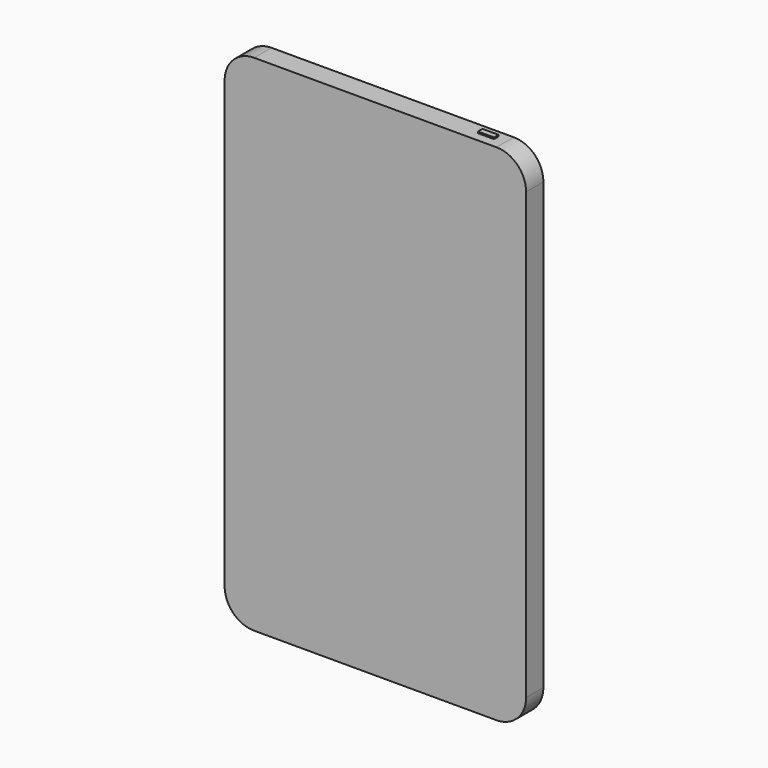
from build123d import *

# Parameters (mm, degrees)
F1_DEPTH = 3.661873
F2_W     = 1.138547
F2_H     = 6.686799
F3_DEPTH = 0.739144
F4_W     = 2.712251
F4_H     = 0.959781
F5_DEPTH = 0.262843


with BuildPart() as f1:
    # F0 (on Front) → F1 (new body)
    with BuildSketch(Plane.XZ):
        with BuildLine():
            ThreePointArc((20.424351, 52.757182), (18.959885, 56.292716), (15.424351, 57.757182))
            Line((15.424351, 57.757182), (-25.547678, 57.757182))
            ThreePointArc((-25.547678, 57.757182), (-29.083212, 56.292716), (-30.547678, 52.757182))
            Line((-30.547678, 52.757182), (-30.547678, -22.52845))
            ThreePointArc((-30.547678, -22.52845), (-29.083212, -26.063984), (-25.547678, -27.52845))
            Line((-25.547678, -27.52845), (15.424351, -27.52845))
            ThreePointArc((15.424351, -27.52845), (18.959885, -26.063984), (20.424351, -22.52845))
            Line((20.424351, -22.52845), (20.424351, 52.757182))
        make_face()
    extrude(amount=F1_DEPTH)

    # F2 (on face) → F3 (cut)
    with BuildSketch(Plane(origin=(-30.547678, 0, 0), x_dir=(0, -1, 0), z_dir=(-1, 0, 0))):
        with Locations((2.132756, 41.858722)):
            Rectangle(F2_W, F2_H)
        with Locations((2.132756, 41.858722)):
            Rectangle(F2_W, F2_H)
    extrude(amount=-F3_DEPTH, mode=Mode.SUBTRACT)

    # F4 (on face) → F5 (join)
    with BuildSketch(Plane.XY.offset(57.757182)):
        with Locations((12.360551, -1.573705)):
            Rectangle(F4_W, F4_H)
        with Locations((12.360551, -1.573705)):
            Rectangle(F4_W, F4_H)
    extrude(amount=F5_DEPTH)


solid = f1.part
